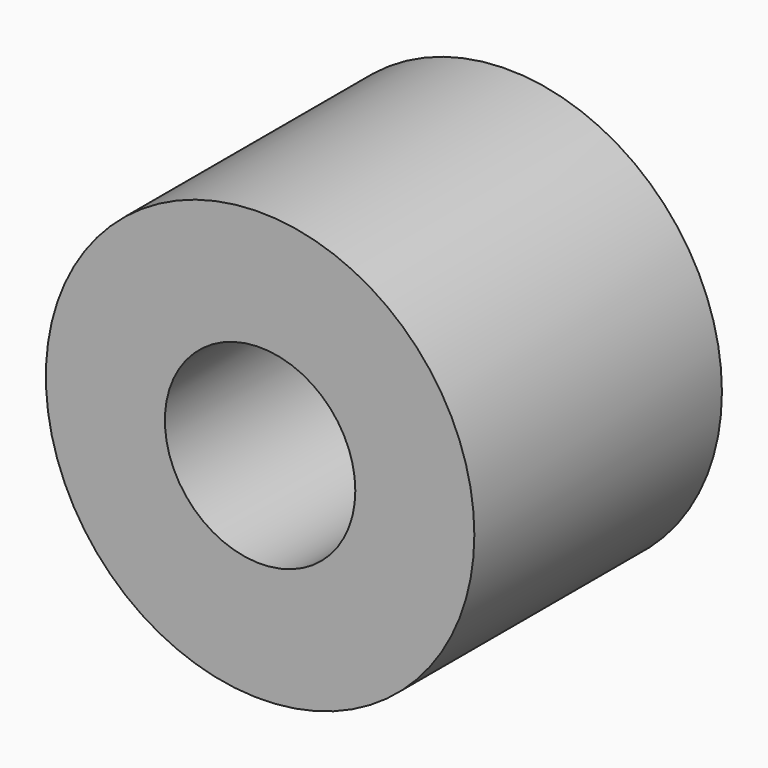
from build123d import *

# Parameters (mm, degrees)
CYLINDER172_R          = 0.4
CYLINDER172_DEPTH      = 1.3
CYLINDER173_R          = 0.9
CYLINDER173_DEPTH      = 1.3
CUT116_PLACEMENT_ANGLE = 90


with BuildPart() as cylinder172:
    # Cylinder172 → Cylinder172 (new body)
    with BuildSketch(Plane.XY):
        Circle(CYLINDER172_R)
    extrude(amount=CYLINDER172_DEPTH)


with BuildPart() as contact001:
    # Cylinder173 → Cylinder173 (new body)
    with BuildSketch(Plane.XY):
        Circle(CYLINDER173_R)
    extrude(amount=CYLINDER173_DEPTH)

    # Cut116: cut Cylinder172
    add(cylinder172.part, mode=Mode.SUBTRACT)


with BuildPart() as contact001_1:
    # Cut116 placement: moved
    add(contact001.part.moved(Location((-9.54, 1.3, -17))).rotate(Axis((-9.54, 1.3, -17), (1, 0, 0)), CUT116_PLACEMENT_ANGLE))


solid = contact001_1.part
